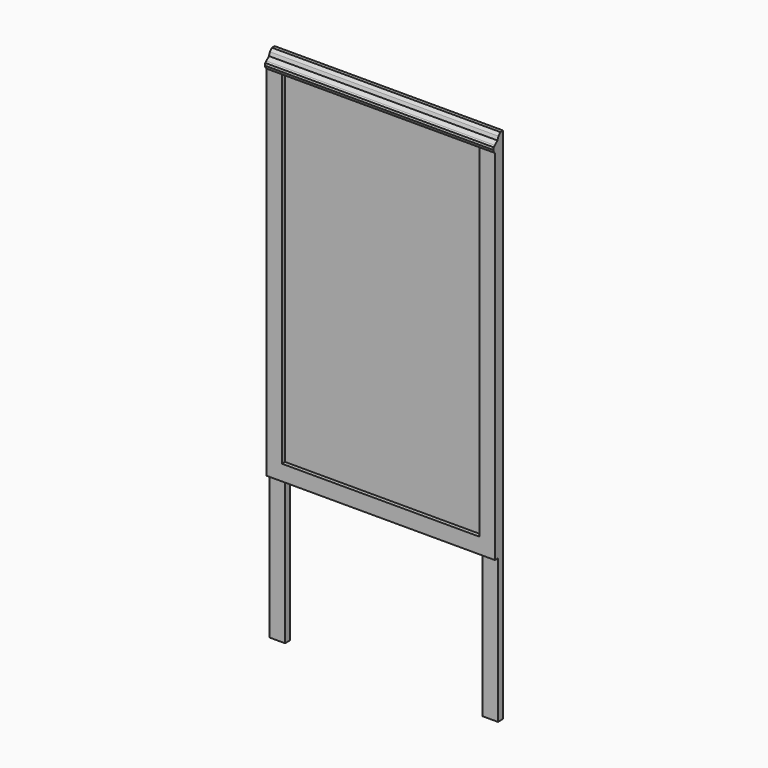
from build123d import *

# Parameters (mm, degrees)
F0_W     = 558.8
F0_H     = 914.4
F1_DEPTH = 25.4
F2_W     = 482.6
F2_H     = 838.2
F3_DEPTH = 9.525
F4_W     = 38.1
F4_H     = 390.394981
F5_DEPTH = 15.875
F7_DEPTH = 558.801
F9_DEPTH = 558.8


with BuildPart() as f1:
    # F0 (on Front) → F1 (new body)
    with BuildSketch(Plane.XZ):
        with Locations((279.4, 457.2)):
            Rectangle(F0_W, F0_H)
    extrude(amount=F1_DEPTH)

    # F2 (on face) → F3 (cut)
    with BuildSketch(Plane.XZ.offset(25.4)):
        with Locations((279.4, 457.2)):
            Rectangle(F2_W, F2_H)
    extrude(amount=-F3_DEPTH, mode=Mode.SUBTRACT)

    # F4 (on face) → F5 (join, through all)
    with BuildSketch(Plane.XZ.offset(15.875)):
        with Locations((19.05, -157.09749)):
            Rectangle(F4_W, F4_H)
        with Locations((539.75, -157.09749)):
            Rectangle(F4_W, F4_H)
    extrude(amount=-F5_DEPTH)

    # F6 (on face) → F7 (cut, through all)
    with BuildSketch(Plane.YZ.offset(558.8)):
        Polygon((-14.501915, 908.10591), (-8.410952, 914.4), (-25.4, 914.4), (-25.4, 892.733455), (-17.402377, 899.984598), align=None)
    extrude(amount=-F7_DEPTH, mode=Mode.SUBTRACT)

    # F8 (on face) → F9 (join, through all)
    with BuildSketch(Plane.YZ.offset(558.8)):
        Polygon((-25.4, 876.3), (-25.4, 892.733455), (-28.536921, 889.689863), (-29.897201, 884.579603), (-28.536921, 880.158018), align=None)
    extrude(amount=-F9_DEPTH)


solid = f1.part
